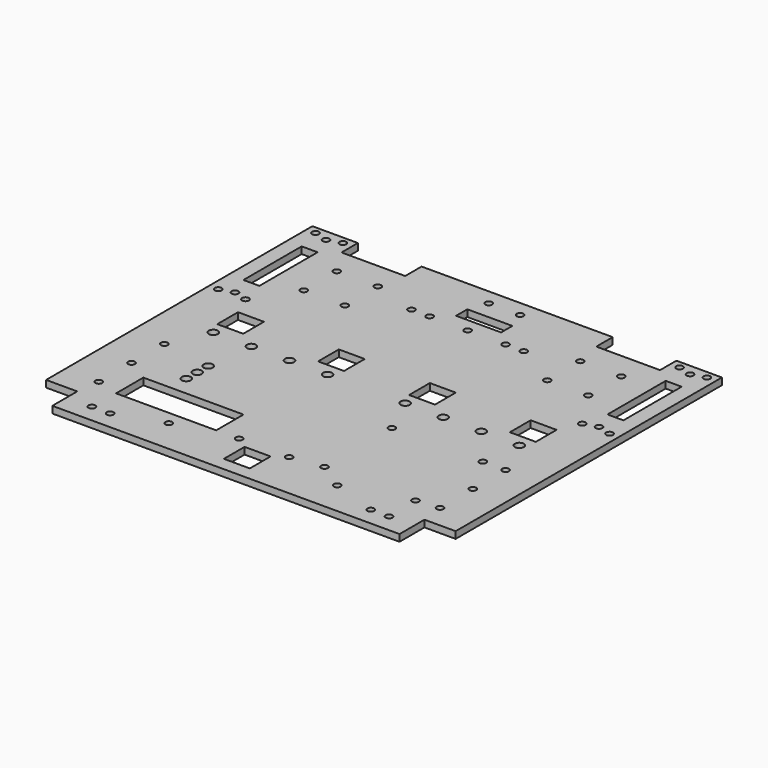
from build123d import *

# Parameters (mm, degrees)
SKETCH_R      = 1.5
SKETCH_R_2    = 2
SKETCH_W      = 7
SKETCH_H      = 32
SKETCH_W_2    = 11.4
SKETCH_H_2    = 11.4
PAD_DEPTH     = 3
SKETCH001_R   = 1.5
SKETCH001_R_2 = 2
SKETCH001_W   = 19.8
SKETCH001_H   = 6.2
SKETCH001_W_2 = 44
SKETCH001_H_2 = 15
POCKET_DEPTH  = 3.001


with BuildPart() as part:
    # Sketch → Pad (new body)
    with BuildSketch(Plane.XY):
        Polygon((90, 160), (90, 17.4), (84.3, 17.4), (84.3, 6), (90, 6), (90, 0), (13.7, 0), (13.7, 13.7), (0, 13.7), (0, 160), (20, 160), (20, 151), (48, 151), (48, 160), align=None)
        with Locations((10, 155)):
            Circle(SKETCH_R, mode=Mode.SUBTRACT)
        with Locations((10, 105)):
            Circle(SKETCH_R, mode=Mode.SUBTRACT)
        with Locations((27.5, 139.05)):
            Circle(SKETCH_R, mode=Mode.SUBTRACT)
        with Locations((45.5, 139.05)):
            Circle(SKETCH_R, mode=Mode.SUBTRACT)
        with Locations((27.5, 120.95)):
            Circle(SKETCH_R, mode=Mode.SUBTRACT)
        with Locations((45.5, 120.95)):
            Circle(SKETCH_R, mode=Mode.SUBTRACT)
        with Locations((4, 156.75)):
            Circle(SKETCH_R, mode=Mode.SUBTRACT)
        with Locations((16, 156.75)):
            Circle(SKETCH_R, mode=Mode.SUBTRACT)
        with Locations((4, 103.25)):
            Circle(SKETCH_R, mode=Mode.SUBTRACT)
        with Locations((16, 103.25)):
            Circle(SKETCH_R, mode=Mode.SUBTRACT)
        with Locations((24.7, 8)):
            Circle(SKETCH_R, mode=Mode.SUBTRACT)
        with Locations((32.7, 8)):
            Circle(SKETCH_R, mode=Mode.SUBTRACT)
        with Locations((79, 21)):
            Circle(SKETCH_R, mode=Mode.SUBTRACT)
        with Locations((22.74, 77.15)):
            Circle(SKETCH_R_2, mode=Mode.SUBTRACT)
        with Locations((39.48, 77.15)):
            Circle(SKETCH_R_2, mode=Mode.SUBTRACT)
        with Locations((56.22, 77.15)):
            Circle(SKETCH_R_2, mode=Mode.SUBTRACT)
        with Locations((72.96, 77.15)):
            Circle(SKETCH_R_2, mode=Mode.SUBTRACT)
        with Locations((53, 14.9)):
            Circle(SKETCH_R, mode=Mode.SUBTRACT)
        with Locations((15, 59.91)):
            Circle(SKETCH_R, mode=Mode.SUBTRACT)
        with Locations((15, 41.91)):
            Circle(SKETCH_R, mode=Mode.SUBTRACT)
        with Locations((15, 23.91)):
            Circle(SKETCH_R, mode=Mode.SUBTRACT)
        with Locations((10, 130)):
            Rectangle(SKETCH_W, SKETCH_H, mode=Mode.SUBTRACT)
        with Locations((25.7, 88.45)):
            Rectangle(SKETCH_W_2, SKETCH_H_2, mode=Mode.SUBTRACT)
        with Locations((70, 88.45)):
            Rectangle(SKETCH_W_2, SKETCH_H_2, mode=Mode.SUBTRACT)
    pad = extrude(amount=PAD_DEPTH)

    # Mirrored: Pad across face of Pad
    add(pad.mirror(Plane(origin=(90, 88.7, 1.5), x_dir=(0, 1, 0), z_dir=(1, 0, 0))))

    # Sketch001 → Pocket (cut, through all)
    with BuildSketch(Plane.XY.offset(3)):
        with Locations((90, 132.8)):
            Circle(SKETCH001_R)
        with Locations((106.7, 132.8)):
            Circle(SKETCH001_R)
        with Locations((114.7, 132.8)):
            Circle(SKETCH001_R)
        with Locations((73.3, 132.8)):
            Circle(SKETCH001_R)
        with Locations((65.3, 132.8)):
            Circle(SKETCH001_R)
        with Locations((96.9, 153)):
            Circle(SKETCH001_R)
        with Locations((83.1, 153)):
            Circle(SKETCH001_R)
        with Locations((37, 56.5)):
            Circle(SKETCH001_R_2)
        with Locations((37, 50.5)):
            Circle(SKETCH001_R_2)
        with Locations((37, 44.5)):
            Circle(SKETCH001_R_2)
        with Locations((115, 59.9)):
            Circle(SKETCH001_R)
        with Locations((155, 59.9)):
            Circle(SKETCH001_R)
        with Locations((115, 22.9)):
            Circle(SKETCH001_R)
        with Locations((155, 22.9)):
            Circle(SKETCH001_R)
        with Locations((90, 141.9)):
            Rectangle(SKETCH001_W, SKETCH001_H)
        with Locations((47, 28.4)):
            Rectangle(SKETCH001_W_2, SKETCH001_H_2)
    extrude(amount=-POCKET_DEPTH, mode=Mode.SUBTRACT)


solid = part.part
